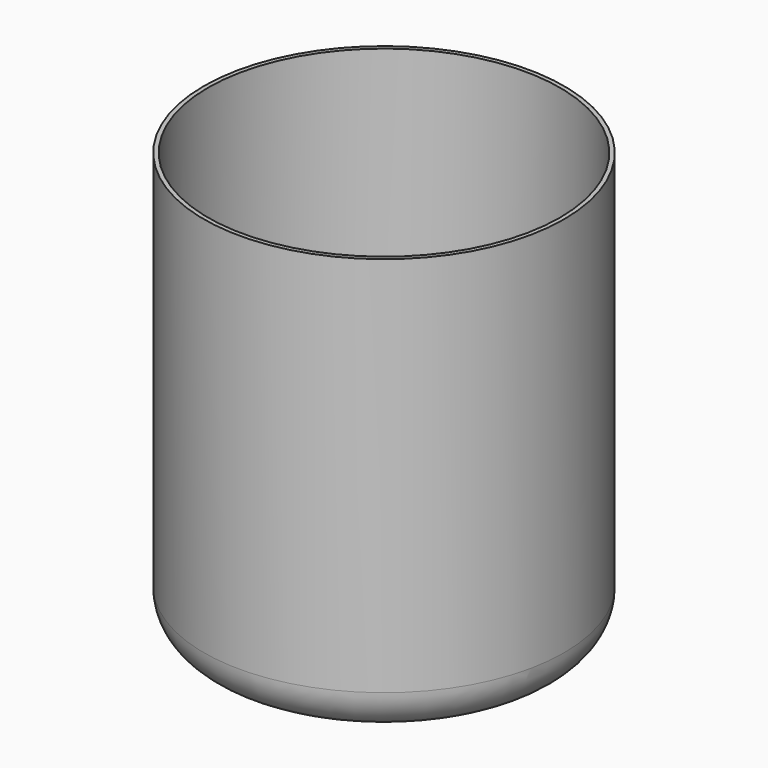
from build123d import *

# Parameters (mm, degrees)
F0_R     = 8.5
F0_R_2   = 8.3
F1_DEPTH = 20
F0_R_3   = 6
F2_DEPTH = 4
F3_R     = 2


with BuildPart() as f1:
    # F0 (on Top) → F1 (new body)
    with BuildSketch(Plane.XY):
        Circle(F0_R)
        Circle(F0_R_2, mode=Mode.SUBTRACT)
    extrude(amount=F1_DEPTH)

    # F0 (on Top) → F2 (join)
    with BuildSketch(Plane.XY):
        Circle(F0_R_2)
        Circle(F0_R_3, mode=Mode.SUBTRACT)
    extrude(amount=F2_DEPTH)

    # F3
    f3_edges = [f1.edges().sort_by_distance(p)[0] for p in [
        (-8.5, 0, 0),
    ]]
    fillet(f3_edges, radius=F3_R)


solid = f1.part
